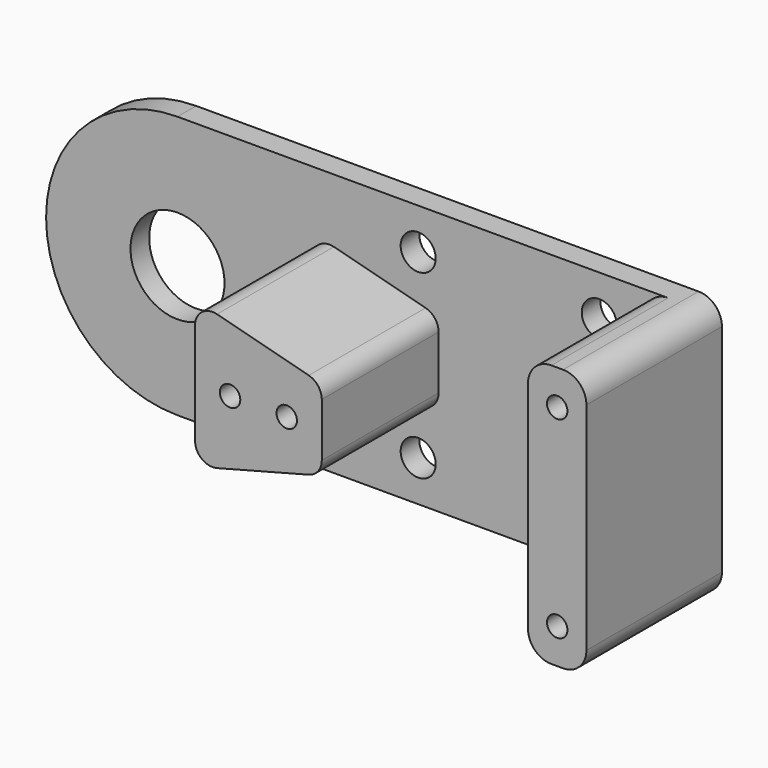
from build123d import *

# Parameters (mm, degrees)
F1_DEPTH  = 4
F2_R      = 8.05
F3_DEPTH  = 4.001
F4_W      = 10
F4_H      = 45
F5_DEPTH  = 25
F6_R      = 1.75
F7_DEPTH  = 29.001
F8_R      = 1.75
F9_DEPTH  = 29.001
F10_R     = 3
F11_R     = 4
F12_R     = 3
F13_DEPTH = 4.001


with BuildPart() as f1:
    # F0 (on Front) → F1 (new body)
    with BuildSketch(Plane.XZ):
        with BuildLine():
            Line((45, 22.5), (-45, 22.5))
            ThreePointArc((-45, 22.5), (-67.5, 0), (-45, -22.5))
            Line((-45, -22.5), (45, -22.5))
            Line((45, -22.5), (45, 22.5))
        make_face()
    extrude(amount=F1_DEPTH)

    # F2 (on face) → F3 (cut, through all)
    with BuildSketch(Plane.XZ.offset(4)):
        with Locations((-45, 0)):
            Circle(F2_R)
    extrude(amount=-F3_DEPTH, mode=Mode.SUBTRACT)

    # F4 (on face) → F5 (join)
    with BuildSketch(Plane.XZ.offset(4)):
        Polygon((-0.3, 6.9010445144), (-22, 12.5778352683), (-22, 0), (-22, -12.5778352683), (-0.3, -6.9010445144), (-0.3, 0), align=None)
        with Locations((40, 0)):
            Rectangle(F4_W, F4_H)
    extrude(amount=F5_DEPTH)

    # F6 (on face) → F7 (cut, through all)
    with BuildSketch(Plane.XZ.offset(29)):
        with Locations((-16, 0)):
            Circle(F6_R)
        with Locations((-6.3, 0)):
            Circle(F6_R)
    extrude(amount=-F7_DEPTH, mode=Mode.SUBTRACT)

    # F8 (on face) → F9 (cut, through all)
    with BuildSketch(Plane.XZ.offset(29)):
        with Locations((40, 16.5)):
            Circle(F8_R)
        with Locations((40, -16.5)):
            Circle(F8_R)
    extrude(amount=-F9_DEPTH, mode=Mode.SUBTRACT)

    # F10
    f10_edges = [f1.edges().sort_by_distance(p)[0] for p in [
        (-0.3, -16.5, 6.901045),
        (-22, -16.5, 12.577835),
        (-22, -16.5, -12.577835),
        (-0.3, -16.5, -6.901045),
    ]]
    fillet(f10_edges, radius=F10_R)

    # F11
    f11_edges = [f1.edges().sort_by_distance(p)[0] for p in [
        (45, -14.5, 22.5),
        (45, -14.5, -22.5),
        (35, -16.5, 22.5),
        (35, -16.5, -22.5),
    ]]
    fillet(f11_edges, radius=F11_R)

    # F12 (on face) → F13 (cut, through all)
    with BuildSketch(Plane.XZ.offset(4)):
        with Locations((-3.8, 15.5)):
            Circle(F12_R)
        with Locations((-3.8, -15.5)):
            Circle(F12_R)
        with Locations((27.2, -15.5)):
            Circle(F12_R)
        with Locations((27.2, 15.5)):
            Circle(F12_R)
    extrude(amount=-F13_DEPTH, mode=Mode.SUBTRACT)


solid = f1.part
